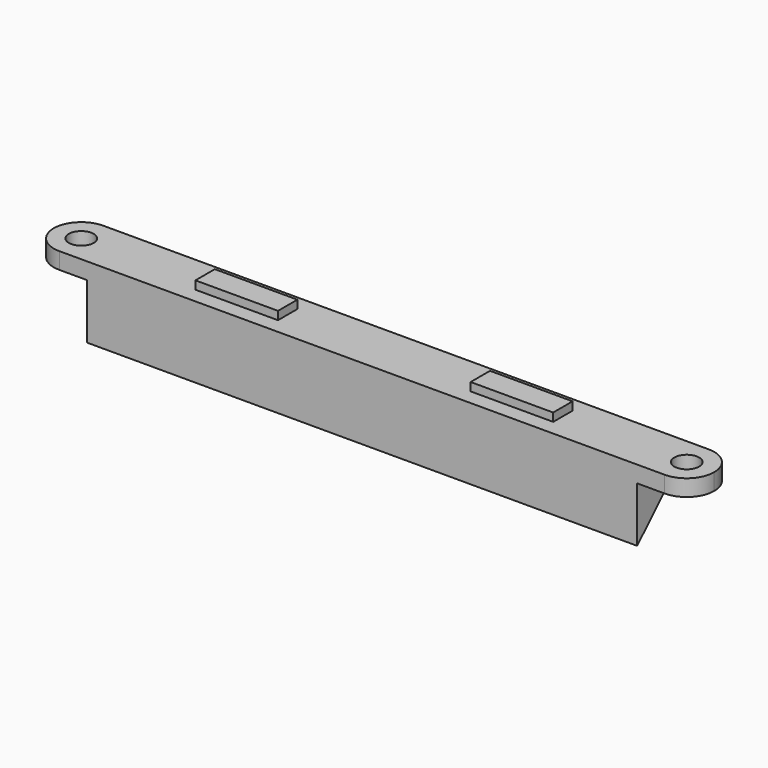
from build123d import *

# Parameters (mm, degrees)
F0_R     = 2.25
F0_W     = 15
F0_H     = 4.4
F1_DEPTH = 3
F2_DEPTH = 1.5
F4_DEPTH = 50


with BuildPart() as f1:
    # F0 (on Top) → F1 (new body)
    with BuildSketch(Plane.XY):
        with BuildLine():
            ThreePointArc((-50, 0), (-51.464466, 3.535534), (-55, 5))
            ThreePointArc((-55, 5), (-60, 0), (-55, -5))
            ThreePointArc((-55, -5), (-51.464466, -3.535534), (-50, 0))
        make_face()
        with Locations((-55, 0)):
            Circle(F0_R, mode=Mode.SUBTRACT)
        with BuildLine():
            ThreePointArc((55, -5), (50, 0), (55, 5))
            Line((55, 5), (-55, 5))
            ThreePointArc((-55, 5), (-51.464466, 3.535534), (-50, 0))
            ThreePointArc((-50, 0), (-51.464466, -3.535534), (-55, -5))
            Line((-55, -5), (55, -5))
        make_face()
        with Locations((-25, 0)):
            Rectangle(F0_W, F0_H, mode=Mode.SUBTRACT)
        with Locations((25, 0)):
            Rectangle(F0_W, F0_H, mode=Mode.SUBTRACT)
        with Locations((-25, 0)):
            Rectangle(F0_W, F0_H)
        with Locations((25, 0)):
            Rectangle(F0_W, F0_H)
        with BuildLine():
            ThreePointArc((55, -5), (58.535534, -3.535534), (60, 0))
            ThreePointArc((60, 0), (58.535534, 3.535534), (55, 5))
            ThreePointArc((55, 5), (50, 0), (55, -5))
        make_face()
        with Locations((55, 0)):
            Circle(F0_R, mode=Mode.SUBTRACT)
    extrude(amount=-F1_DEPTH)

    # F0 (on Top) → F2 (join)
    with BuildSketch(Plane.XY):
        with Locations((-25, 0)):
            Rectangle(F0_W, F0_H)
        with Locations((25, 0)):
            Rectangle(F0_W, F0_H)
    extrude(amount=F2_DEPTH)

    # F3 (on Right) → F4 (join, symmetric)
    with BuildSketch(Plane.YZ):
        Polygon((5, -3), (-5, -3), (-5, -13), align=None)
    extrude(amount=F4_DEPTH, both=True)


solid = f1.part
